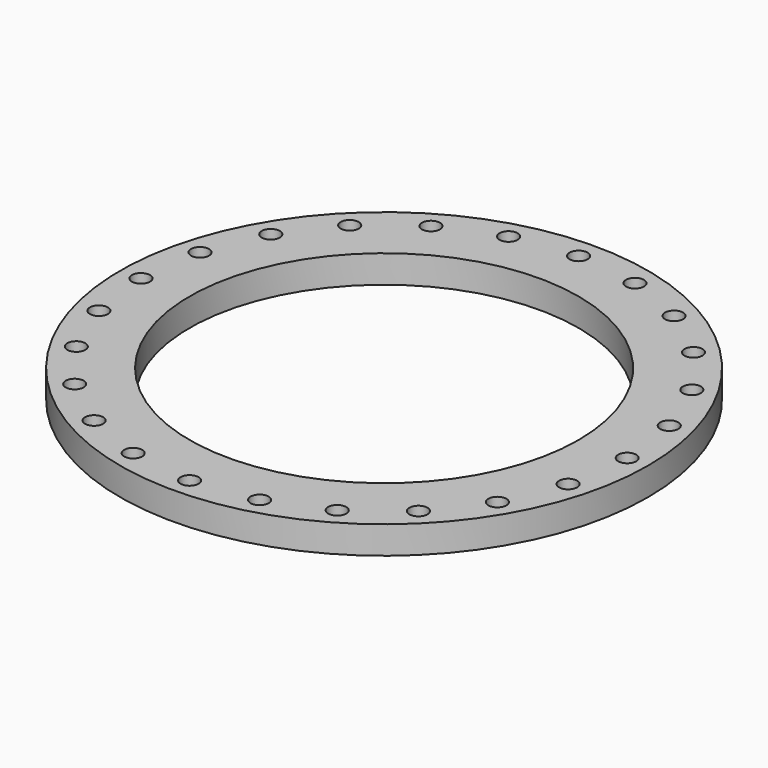
from build123d import *

# Parameters (mm, degrees)
CYLINDER001002001001_R           = 2.6
CYLINDER001002001001_DEPTH       = 20
CYLINDER001002001001001_R        = 2.6
CYLINDER001002001001001_DEPTH    = 20
CYLINDER001002001001001001_R     = 2.6
CYLINDER001002001001001001_DEPTH = 26
CYLINDER001002_R                 = 2.6
CYLINDER001002_DEPTH             = 20
CYLINDER001002001_R              = 2.6
CYLINDER001002001_DEPTH          = 20
CYLINDER001_R                    = 2.6
CYLINDER001_DEPTH                = 20
CYLINDER001001_R                 = 2.6
CYLINDER001001_DEPTH             = 20
CYLINDER002_R                    = 56
CYLINDER002_DEPTH                = 10
CYLINDER_R                       = 76
CYLINDER_DEPTH                   = 8


with BuildPart() as pole003:
    # Cylinder001002001001 → Cylinder001002001001 (new body)
    with BuildSketch(Plane(origin=(60.62, 35, 3), x_dir=(1, 0, 0), z_dir=(0, 0, 1))):
        Circle(CYLINDER001002001001_R)
    extrude(amount=CYLINDER001002001001_DEPTH)


with BuildPart() as pole004:
    # Cylinder001002001001001 → Cylinder001002001001001 (new body)
    with BuildSketch(Plane(origin=(49.49, 49.49, 3), x_dir=(1, 0, 0), z_dir=(0, 0, 1))):
        Circle(CYLINDER001002001001001_R)
    extrude(amount=CYLINDER001002001001001_DEPTH)


with BuildPart() as pole005:
    # Cylinder001002001001001001 → Cylinder001002001001001001 (new body)
    with BuildSketch(Plane(origin=(35, 60.62, 3), x_dir=(1, 0, 0), z_dir=(0, 0, 1))):
        Circle(CYLINDER001002001001001001_R)
    extrude(amount=CYLINDER001002001001001001_DEPTH)


with BuildPart() as cylinder001002:
    # Cylinder001002 → Cylinder001002 (new body)
    with BuildSketch(Plane(origin=(18.2, 67.55, 3), x_dir=(1, 0, 0), z_dir=(0, 0, 1))):
        Circle(CYLINDER001002_R)
    extrude(amount=CYLINDER001002_DEPTH)


with BuildPart() as pole2:
    # Cylinder001002001 → Cylinder001002001 (new body)
    with BuildSketch(Plane(origin=(67.55, 18.2, 3), x_dir=(1, 0, 0), z_dir=(0, 0, 1))):
        Circle(CYLINDER001002001_R)
    extrude(amount=CYLINDER001002001_DEPTH)


with BuildPart() as fusion:
    # Fusion base: copy of pole2
    add(pole2.part)

    # Fusion: union pole003, pole004, pole005, Cylinder001002
    add(pole003.part)
    add(pole004.part)
    add(pole005.part)
    add(cylinder001002.part)


with BuildPart() as part_mirroring:
    # Part__Mirroring: instance of Fusion
    add(fusion.part.mirror(Plane(origin=(0, 0, 0), x_dir=(1, 0, 0), z_dir=(0, 1, 0))))


with BuildPart() as pole1:
    # Cylinder001 → Cylinder001 (new body)
    with BuildSketch(Plane(origin=(70, 0, 3), x_dir=(1, 0, 0), z_dir=(0, 0, 1))):
        Circle(CYLINDER001_R)
    extrude(amount=CYLINDER001_DEPTH)


with BuildPart() as part_mirroring001:
    # Part__Mirroring001: instance of Fusion
    add(fusion.part.mirror(Plane(origin=(3e-06, 42.766762, 16), x_dir=(0, -1, 0), z_dir=(1, 0, 0))))


with BuildPart() as part_mirroring003:
    # Part__Mirroring003: instance of pole1
    add(pole1.part.mirror(Plane(origin=(0, 0, 0), x_dir=(0, -1, 0), z_dir=(1, 0, 0))))


with BuildPart() as part_mirroring002:
    # Part__Mirroring002: instance of Part__Mirroring
    add(part_mirroring.part.mirror(Plane(origin=(0, 0, 0), x_dir=(0, -1, 0), z_dir=(1, 0, 0))))


with BuildPart() as cylinder001001:
    # Cylinder001001 → Cylinder001001 (new body)
    with BuildSketch(Plane(origin=(0, 70, 3), x_dir=(1, 0, 0), z_dir=(0, 0, 1))):
        Circle(CYLINDER001001_R)
    extrude(amount=CYLINDER001001_DEPTH)


with BuildPart() as part_mirroring004:
    # Part__Mirroring004: instance of Cylinder001001
    add(cylinder001001.part.mirror(Plane(origin=(0, 0, 0), x_dir=(1, 0, 0), z_dir=(0, 1, 0))))


with BuildPart() as fusion001:
    # Fusion001 base: copy of Cylinder001001
    add(cylinder001001.part)

    # Fusion001: union Part__Mirroring, pole1, Fusion, pole2, pole003, pole004, pole005, Cylinder001002, Part__Mirroring001, Part__Mirroring003, Part__Mirroring002, Part__Mirroring004
    add(part_mirroring.part)
    add(pole1.part)
    add(fusion.part)
    add(pole2.part)
    add(pole003.part)
    add(pole004.part)
    add(pole005.part)
    add(cylinder001002.part)
    add(part_mirroring001.part)
    add(part_mirroring003.part)
    add(part_mirroring002.part)
    add(part_mirroring004.part)


with BuildPart() as cylinder002:
    # Cylinder002 → Cylinder002 (new body)
    with BuildSketch(Plane.XY):
        Circle(CYLINDER002_R)
    extrude(amount=CYLINDER002_DEPTH)


with BuildPart() as cut001:
    # Cylinder → Cylinder (new body)
    with BuildSketch(Plane.XY):
        Circle(CYLINDER_R)
    extrude(amount=CYLINDER_DEPTH)

    # Cut: cut Cylinder002
    add(cylinder002.part, mode=Mode.SUBTRACT)

    # Cut001: cut Fusion001
    add(fusion001.part, mode=Mode.SUBTRACT)


solid = cut001.part
